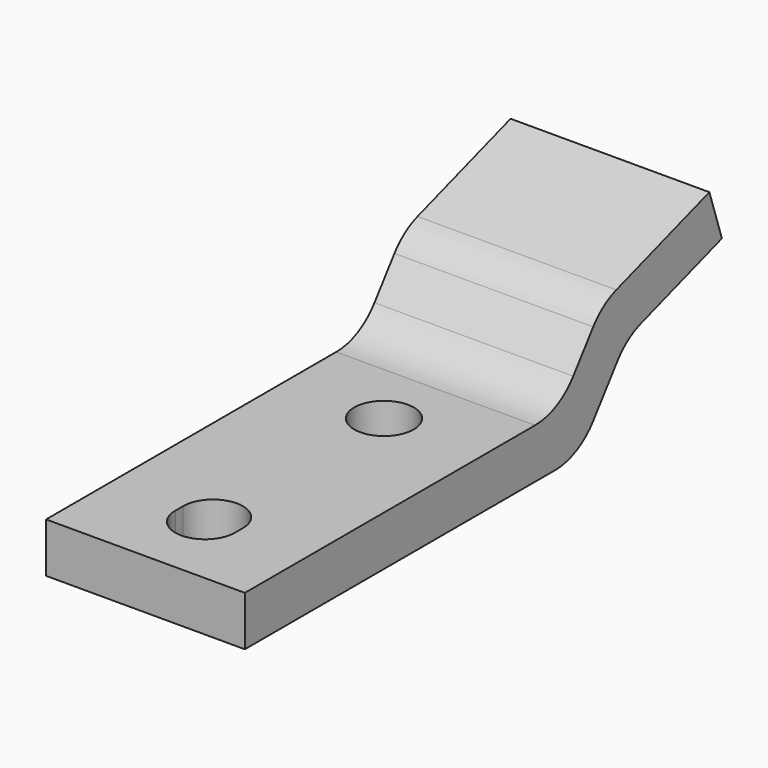
from build123d import *

# Parameters (mm, degrees)
F1_DEPTH      = 5
F1_DEPTH_BACK = 5
F2_R          = 3
F3_R          = 3
F4_R          = 1.5
F5_DEPTH      = 2.5


with BuildPart() as f1:
    # F0 (on Right) → F1 (new body, two sides)
    with BuildSketch(Plane.YZ) as f1_sk:
        Polygon((0, 2.5), (0, 0), (21, 0), (24, 4), (22, 5.5), (19.75, 2.5), align=None)
        Polygon((22, 5.5), (24, 4), (30, 6), (29.209430585, 8.3717082451), (22.4685647168, 6.1247529557), align=None)
    extrude(amount=F1_DEPTH)
    extrude(f1_sk.sketch, amount=-F1_DEPTH_BACK)

    # F2
    f2_edges = [f1.edges().sort_by_distance(p)[0] for p in [
        (0, 21, 0),
        (0, 19.75, 2.5),
    ]]
    fillet(f2_edges, radius=F2_R)

    # F3
    f3_edges = [f1.edges().sort_by_distance(p)[0] for p in [
        (0, 22.468565, 6.124753),
        (0, 24, 4),
    ]]
    fillet(f3_edges, radius=F3_R)

    # F4 (on face) → F5 (cut, through all)
    with BuildSketch(Plane.XY.offset(2.5)):
        with Locations((0, 15)):
            Circle(F4_R)
        with BuildLine():
            ThreePointArc((1.4947825929, 3.875), (1.4986950806, 3.937445581), (1.5, 4))
            ThreePointArc((1.5, 4), (1.4986950806, 4.062554419), (1.4947825929, 4.125))
            ThreePointArc((1.4947825929, 4.125), (1.4882142436, 4.0623344324), (1.4790199458, 4))
            ThreePointArc((1.4790199458, 4), (1.4882142436, 3.9376655676), (1.4947825929, 3.875))
        make_face()
        with BuildLine():
            ThreePointArc((-1.4790199458, 4), (-1.4882142436, 4.0623344324), (-1.4947825929, 4.125))
            ThreePointArc((-1.4947825929, 4.125), (-1.4986950806, 4.062554419), (-1.5, 4))
            ThreePointArc((-1.5, 4), (-1.4986950806, 3.937445581), (-1.4947825929, 3.875))
            ThreePointArc((-1.4947825929, 3.875), (-1.4882142436, 3.9376655676), (-1.4790199458, 4))
        make_face()
        with BuildLine():
            ThreePointArc((-1.4790199458, 4), (0, 2.75), (1.4790199458, 4))
            ThreePointArc((1.4790199458, 4), (0, 5.25), (-1.4790199458, 4))
        make_face()
        with BuildLine():
            ThreePointArc((1.4790199458, 4), (1.4882142436, 4.0623344324), (1.4947825929, 4.125))
            ThreePointArc((1.4947825929, 4.125), (0, 5.5), (-1.4947825929, 4.125))
            ThreePointArc((-1.4947825929, 4.125), (-1.4882142436, 4.0623344324), (-1.4790199458, 4))
            ThreePointArc((-1.4790199458, 4), (0, 5.25), (1.4790199458, 4))
        make_face()
        with BuildLine():
            ThreePointArc((-1.4947825929, 4.125), (0, 5.5), (1.4947825929, 4.125))
            ThreePointArc((1.4947825929, 4.125), (1.4986950806, 4.187445581), (1.5, 4.25))
            ThreePointArc((1.5, 4.25), (0, 5.75), (-1.5, 4.25))
            ThreePointArc((-1.5, 4.25), (-1.4986950806, 4.187445581), (-1.4947825929, 4.125))
        make_face()
        with BuildLine():
            ThreePointArc((-1.4947825929, 3.875), (0, 2.5), (1.4947825929, 3.875))
            ThreePointArc((1.4947825929, 3.875), (1.4882142436, 3.9376655676), (1.4790199458, 4))
            ThreePointArc((1.4790199458, 4), (0, 2.75), (-1.4790199458, 4))
            ThreePointArc((-1.4790199458, 4), (-1.4882142436, 3.9376655676), (-1.4947825929, 3.875))
        make_face()
        with BuildLine():
            ThreePointArc((1.5, 3.75), (1.4986950806, 3.812554419), (1.4947825929, 3.875))
            ThreePointArc((1.4947825929, 3.875), (0, 2.5), (-1.4947825929, 3.875))
            ThreePointArc((-1.4947825929, 3.875), (-1.4986950806, 3.812554419), (-1.5, 3.75))
            ThreePointArc((-1.5, 3.75), (0, 2.25), (1.5, 3.75))
        make_face()
        with BuildLine():
            ThreePointArc((1.4947825929, 4.125), (1.4986950806, 4.062554419), (1.5, 4))
            Line((1.5, 4), (1.5, 4.25))
            ThreePointArc((1.5, 4.25), (1.4986950806, 4.187445581), (1.4947825929, 4.125))
        make_face()
        with BuildLine():
            Line((1.5, 3.75), (1.5, 4))
            ThreePointArc((1.5, 4), (1.4986950806, 3.937445581), (1.4947825929, 3.875))
            ThreePointArc((1.4947825929, 3.875), (1.4986950806, 3.812554419), (1.5, 3.75))
        make_face()
        with BuildLine():
            ThreePointArc((-1.5, 4), (-1.4986950806, 4.062554419), (-1.4947825929, 4.125))
            ThreePointArc((-1.4947825929, 4.125), (-1.4986950806, 4.187445581), (-1.5, 4.25))
            Line((-1.5, 4.25), (-1.5, 4))
        make_face()
        with BuildLine():
            ThreePointArc((-1.5, 3.75), (-1.4986950806, 3.812554419), (-1.4947825929, 3.875))
            ThreePointArc((-1.4947825929, 3.875), (-1.4986950806, 3.937445581), (-1.5, 4))
            Line((-1.5, 4), (-1.5, 3.75))
        make_face()
    extrude(amount=-F5_DEPTH, mode=Mode.SUBTRACT)


solid = f1.part
